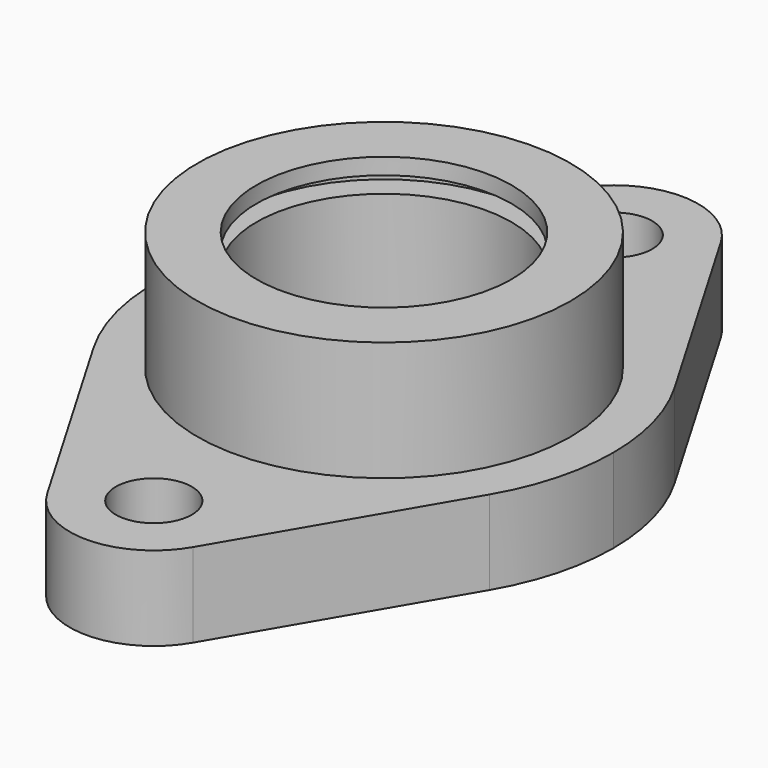
from build123d import *

# Parameters (mm, degrees)
F0_R     = 7.112
F0_R_2   = 34.925
F0_R_3   = 23.876
F1_DEPTH = 15.748
F2_DEPTH = 38.1
F3_W     = 28.448
F3_H     = 3.048
F7_DEPTH = 19.304


with BuildPart() as f1:
    # F0 (on Top) → F1 (new body)
    with BuildSketch(Plane.XY):
        with BuildLine():
            Line((37.057295, 21.665602), (13.630102, 61.735954))
            ThreePointArc((13.630102, 61.735954), (0, 69.596), (-13.630102, 61.735954))
            Line((-13.630102, 61.735954), (-37.057295, 21.665602))
            ThreePointArc((-37.057295, 21.665602), (-0.06028, 42.925956), (36.996299, 21.769595))
            ThreePointArc((36.996299, 21.769595), (37.026833, 21.71762), (37.057295, 21.665602))
        make_face()
        with Locations((0, 53.848)):
            Circle(F0_R, mode=Mode.SUBTRACT)
        with BuildLine():
            ThreePointArc((42.926, -2e-06), (41.432855, 11.22319), (37.057295, 21.665602))
            ThreePointArc((37.057295, 21.665602), (37.026833, 21.71762), (36.996299, 21.769595))
            ThreePointArc((36.996299, 21.769595), (-0.06028, 42.925956), (-37.057295, 21.665602))
            ThreePointArc((-37.057295, 21.665602), (-42.926, 0), (-37.057296, -21.665603))
            ThreePointArc((-37.057296, -21.665603), (0, -42.926002), (37.057296, -21.665603))
            ThreePointArc((37.057296, -21.665603), (41.432855, -11.223192), (42.926, -2e-06))
        make_face()
        Circle(F0_R_2, mode=Mode.SUBTRACT)
        with BuildLine():
            ThreePointArc((37.057296, -21.665603), (0, -42.926002), (-37.057296, -21.665603))
            Line((-37.057296, -21.665603), (-13.630102, -61.735954))
            ThreePointArc((-13.630102, -61.735954), (0, -69.596), (13.630102, -61.735954))
            Line((13.630102, -61.735954), (37.057296, -21.665603))
        make_face()
        with Locations((0, -53.848)):
            Circle(F0_R, mode=Mode.SUBTRACT)
        Circle(F0_R_2)
        Circle(F0_R_3, mode=Mode.SUBTRACT)
    extrude(amount=F1_DEPTH)


with BuildPart() as f2:
    # F0 (on Top) → F2 (new body)
    with BuildSketch(Plane.XY):
        Circle(F0_R_2)
        Circle(F0_R_3, mode=Mode.SUBTRACT)
    extrude(amount=F2_DEPTH)

    # F3 (on Front) → F4 (revolve, cut)
    with BuildSketch(Plane.XZ):
        with Locations((-14.224, 33.528)):
            Rectangle(F3_W, F3_H)
    revolve(axis=Axis((0, 0, 32.004), (0, 0, -1)), mode=Mode.SUBTRACT)


with BuildPart() as f7_tool:
    # F6 (on offset) → F7 (new body)
    with BuildSketch(Plane.YZ.offset(-44.45)):
        with BuildLine():
            Line((9.652, 12.7), (-9.652, 12.7))
            ThreePointArc((-9.652, 12.7), (-14.478, 7.874), (-9.652, 3.048))
            Line((-9.652, 3.048), (9.652, 3.048))
            ThreePointArc((9.652, 3.048), (14.478, 7.874), (9.652, 12.7))
        make_face()
    extrude(amount=F7_DEPTH)


with BuildPart() as f1_1:
    add(f1.part)

    # F7: cut by f7_tool
    add(f7_tool.part, mode=Mode.SUBTRACT)


with BuildPart() as f2_1:
    add(f2.part)

    # F7: cut by f7_tool
    add(f7_tool.part, mode=Mode.SUBTRACT)


solid = Compound([f1_1.part, f2_1.part])
